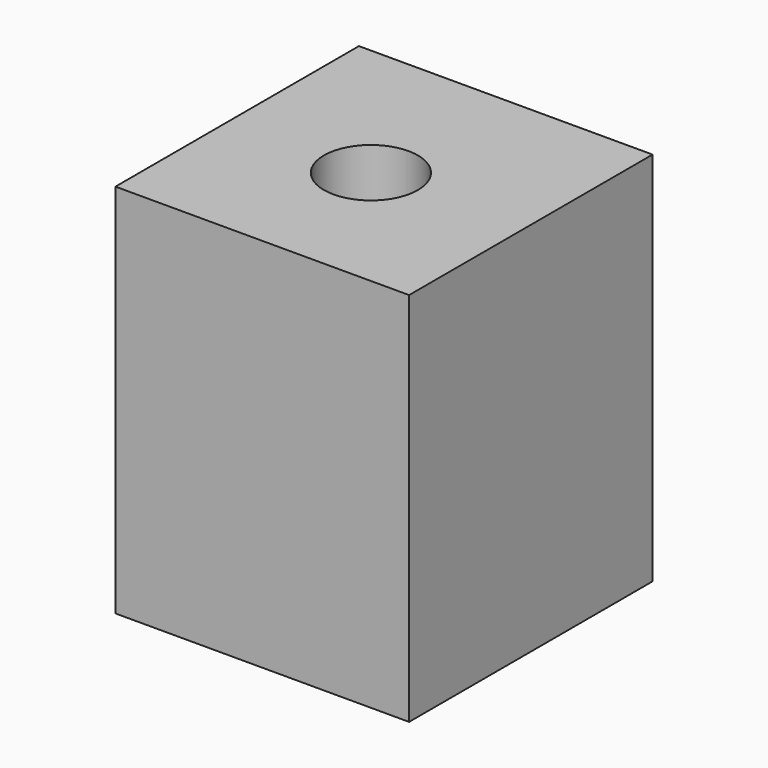
from build123d import *

# Parameters (mm, degrees)
F1_DEPTH = 25.4
F3_D     = 6.35


with BuildPart() as f1:
    # F0 (on Top) → F1 (new body)
    with BuildSketch(Plane.XY):
        Polygon((0, 15.87911), (0, 7.578656), (19.848898, 7.578656), (19.848898, 28.149337), (0, 28.149337), align=None)
    extrude(amount=F1_DEPTH)

    # F3 (through all)
    with Locations(Plane.XY.offset(25.4)):
        with Locations((9.537812, 17.242163)):
            Hole(F3_D / 2)


solid = f1.part
